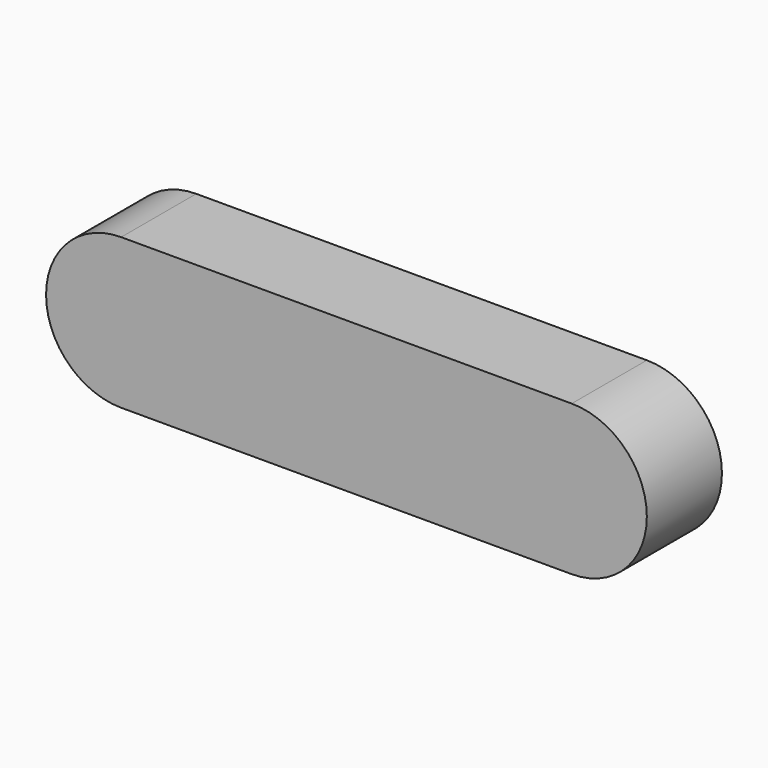
from build123d import *

# Parameters (mm, degrees)
PAD_DEPTH = 5


with BuildPart() as part:
    # Sketch → Pad (new body)
    with BuildSketch(Plane.XZ):
        with BuildLine():
            ThreePointArc((-5e-06, 4), (-4, 0), (-5e-06, -4))
            Line((-5e-06, -4), (23.999995, -4))
            ThreePointArc((23.999995, -4), (27.999995, 0), (23.999995, 4))
            Line((23.999995, 4), (-5e-06, 4))
        make_face()
    extrude(amount=PAD_DEPTH)


solid = part.part
